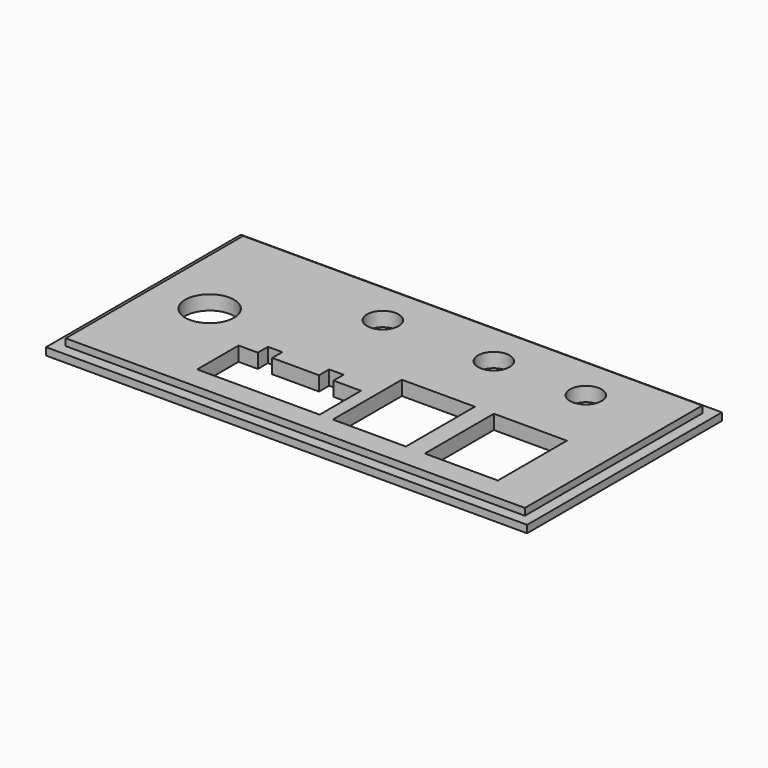
from build123d import *

# Parameters (mm, degrees)
F0_W     = 79.85
F0_H     = 38.55
F0_R     = 4.25
F0_W_2   = 12.7
F0_H_2   = 15
F0_R_2   = 2.75
F1_DEPTH = 2.5
F0_W_3   = 83.65
F0_H_3   = 42.35
F2_DEPTH = 1.3


with BuildPart() as f1:
    # F0 (on Top) → F1 (new body)
    with BuildSketch(Plane.XY):
        Rectangle(F0_W, F0_H)
        with Locations((-30.1, -0.275)):
            Circle(F0_R, mode=Mode.SUBTRACT)
        Polygon((1.025, -6.275), (1.025, -15.275), (-20.275, -15.275), (-20.275, -6.275), (-16.925, -6.275), (-16.925, -4.075), (-14.425, -4.075), (-14.425, -6.275), (-6.275, -6.275), (-6.275, -4.075), (-3.775, -4.075), (-3.775, -6.275), align=None, mode=Mode.SUBTRACT)
        with Locations((9.675, -7.775)):
            Rectangle(F0_W_2, F0_H_2, mode=Mode.SUBTRACT)
        with Locations((25.675, -7.775)):
            Rectangle(F0_W_2, F0_H_2, mode=Mode.SUBTRACT)
        with Locations((-9.625, 11.775)):
            Circle(F0_R_2, mode=Mode.SUBTRACT)
        with Locations((9.675, 11.775)):
            Circle(F0_R_2, mode=Mode.SUBTRACT)
        with Locations((25.675, 11.775)):
            Circle(F0_R_2, mode=Mode.SUBTRACT)
    extrude(amount=F1_DEPTH)

    # F0 (on Top) → F2 (join)
    with BuildSketch(Plane.XY):
        Rectangle(F0_W_3, F0_H_3)
        Rectangle(F0_W, F0_H, mode=Mode.SUBTRACT)
    extrude(amount=F2_DEPTH)


solid = f1.part
